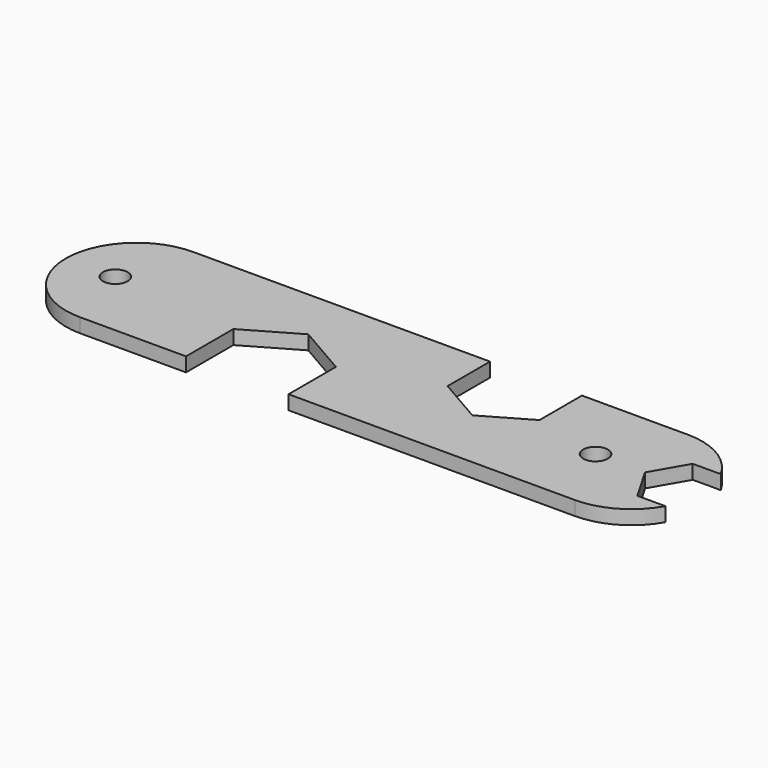
from build123d import *

# Parameters (mm, degrees)
F0_R     = 1.75
F1_DEPTH = 2


with BuildPart() as f1:
    # F0 (on Top) → F1 (new body)
    with BuildSketch(Plane.XY):
        with BuildLine():
            Line((78.439617, 10), (36.439617, 10))
            ThreePointArc((36.439617, 10), (26.439617, 0), (36.439617, -10))
            Line((36.439617, -10), (51.439617, -10))
            Line((51.439617, -10), (51.439617, -1.628421))
            Line((51.439617, -1.628421), (58.689617, 2.557368))
            Line((58.689617, 2.557368), (65.939617, -1.628421))
            Line((65.939617, -1.628421), (65.939617, -10))
            Line((65.939617, -10), (106.439617, -10))
            ThreePointArc((106.439617, -10), (111.48937, -8.631338), (115.156841, -4.9))
            Line((115.156841, -4.9), (111.18543, -4.9))
            Line((111.18543, -4.9), (108.356414, 0))
            Line((108.356414, 0), (111.18543, 4.9))
            Line((111.18543, 4.9), (115.156841, 4.9))
            ThreePointArc((115.156841, 4.9), (111.48937, 8.631338), (106.439617, 10))
            Line((106.439617, 10), (91.439617, 10))
            Line((91.439617, 10), (91.439617, 2.494447))
            Line((91.439617, 2.494447), (84.939617, -1.25833))
            Line((84.939617, -1.25833), (78.439617, 2.494447))
            Line((78.439617, 2.494447), (78.439617, 10))
        make_face()
        with Locations((33.439617, 0)):
            Circle(F0_R, mode=Mode.SUBTRACT)
        with Locations((101.356414, 0)):
            Circle(F0_R, mode=Mode.SUBTRACT)
    extrude(amount=F1_DEPTH)


solid = f1.part
